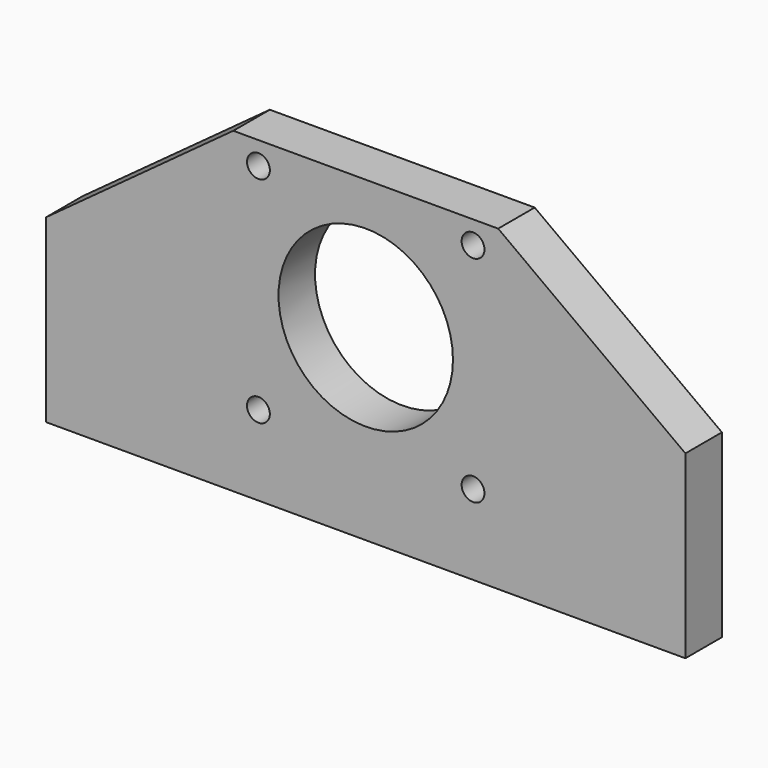
from build123d import *

# Parameters (mm, degrees)
F0_R     = 2.5
F0_R_2   = 19.1
F1_DEPTH = 10


with BuildPart() as f1:
    # F0 (on Front) → F1 (new body)
    with BuildSketch(Plane.XZ):
        Polygon((29, 28.5), (-29, 28.5), (-70, -1.5), (-70, -41), (70, -41), (70, -1.5), align=None)
        with Locations((-23.5, -23.5)):
            Circle(F0_R, mode=Mode.SUBTRACT)
        with Locations((23.5, -23.5)):
            Circle(F0_R, mode=Mode.SUBTRACT)
        with Locations((-23.5, 23.5)):
            Circle(F0_R, mode=Mode.SUBTRACT)
        Circle(F0_R_2, mode=Mode.SUBTRACT)
        with Locations((23.5, 23.5)):
            Circle(F0_R, mode=Mode.SUBTRACT)
    extrude(amount=F1_DEPTH)


solid = f1.part
